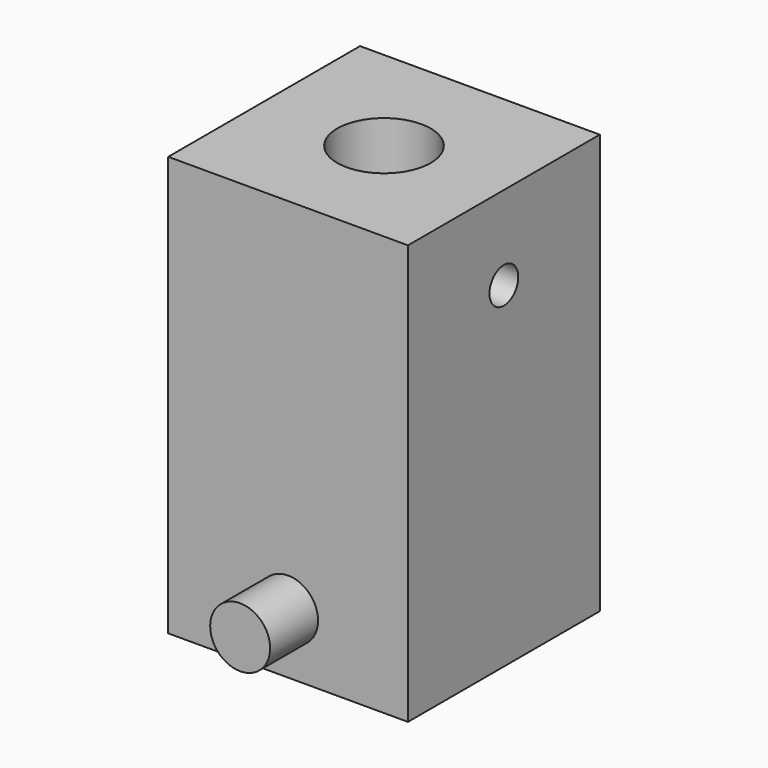
from build123d import *

# Parameters (mm, degrees)
SKETCH106_W     = 20
SKETCH106_H     = 35
PAD054_DEPTH    = 10
PAD055_DEPTH    = 10
SKETCH107_R     = 3.9
POCKET042_DEPTH = 35
SKETCH108_R     = 1.5
POCKET043_DEPTH = 10
SKETCH109_R     = 2.5
PAD056_DEPTH    = 5
SKETCH110_R     = 2.5
PAD057_DEPTH    = 5


with BuildPart() as part:
    # Sketch106 → Pad054 (new body, symmetric)
    with BuildSketch(Plane.YZ):
        with Locations((0, -17.5)):
            Rectangle(SKETCH106_W, SKETCH106_H)
    extrude(amount=PAD054_DEPTH, both=True)

    # Sketch106 → Pad055 (join)
    with BuildSketch(Plane.YZ):
        with Locations((0, -17.5)):
            Rectangle(SKETCH106_W, SKETCH106_H)
    extrude(amount=PAD055_DEPTH)

    # Sketch107 (on Face1 of Pad055) → Pocket042 (cut)
    with BuildSketch(Plane.YX.offset(35)):
        Circle(SKETCH107_R)
    extrude(amount=-POCKET042_DEPTH, mode=Mode.SUBTRACT)

    # Sketch108 (on Face9 of Pocket042) → Pocket043 (cut)
    with BuildSketch(Plane.YZ.offset(10)):
        with Locations((0, -7)):
            Circle(SKETCH108_R)
    extrude(amount=-POCKET043_DEPTH, mode=Mode.SUBTRACT)

    # Sketch109 (on Face8 of Pocket043) → Pad056 (join)
    with BuildSketch(Plane.ZX.offset(10)):
        with Locations((-30, 0)):
            Circle(SKETCH109_R)
    extrude(amount=PAD056_DEPTH)

    # Sketch110 (on Face11 of Pad056) → Pad057 (join)
    with BuildSketch(Plane(origin=(0, -10, 0), x_dir=(0, 0, -1), z_dir=(0, -1, 0))):
        with Locations((30, 0)):
            Circle(SKETCH110_R)
    extrude(amount=PAD057_DEPTH)


solid = part.part
